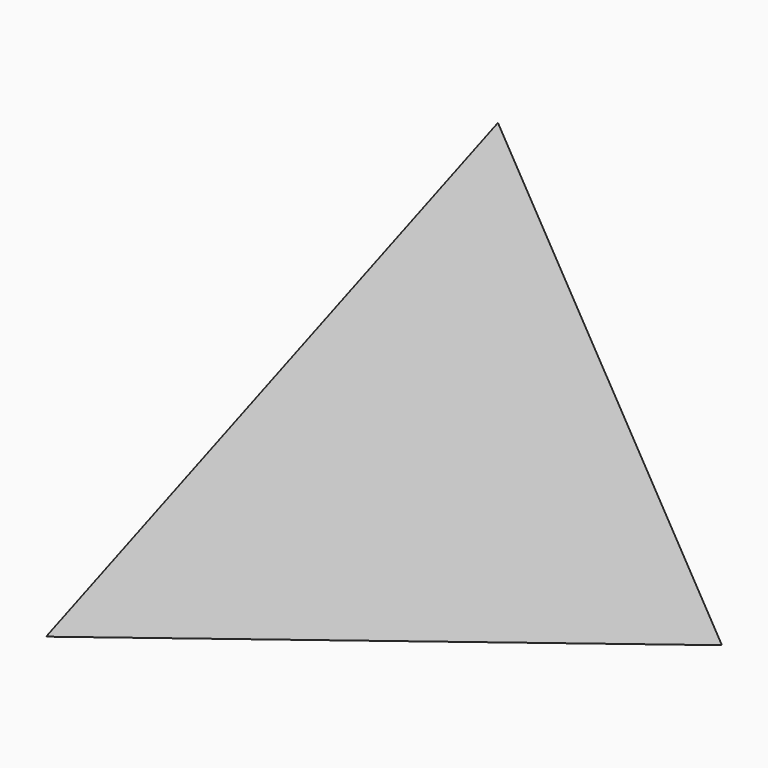
from build123d import *


with BuildPart() as f3:
    # F0 (on Front) → F3 section 0
    with BuildSketch(Plane.XZ, mode=Mode.PRIVATE) as f3_s0:
        Polygon((39.590165, -22.807376), (-0.043315, 45.689777), (-39.54685, -22.8824), align=None)
    loft([f3_s0.sketch, Vertex(0, -100, 6.304134)])


solid = f3.part
